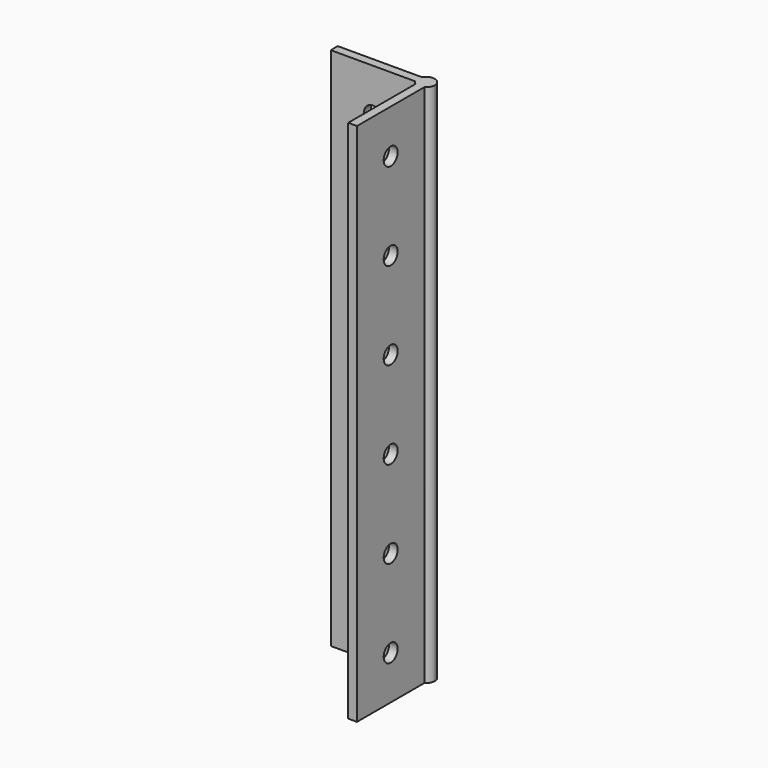
from build123d import *

# Parameters (mm, degrees)
F1_DEPTH = 76.2
F2_R     = 1.27
F3_DEPTH = 25.4
F4_R     = 1.27
F5_DEPTH = 25.4


with BuildPart() as f1:
    # F0 (on Top) → F1 (new body)
    with BuildSketch(Plane.XY):
        with BuildLine():
            ThreePointArc((0, 1.27), (0.0432742006, 1.5987001873), (0.1701477372, 1.905))
            Line((0.1701477372, 1.905), (-12.065, 1.905))
            Line((-12.065, 1.905), (-12.065, 0.635))
            Line((-12.065, 0.635), (0.1701477372, 0.635))
            ThreePointArc((0.1701477372, 0.635), (0.0432742006, 0.9412998127), (0, 1.27))
        make_face()
        with BuildLine():
            Line((1.905, -12.065), (1.905, 0.1701477372))
            ThreePointArc((1.905, 0.1701477372), (1.5987001873, 0.0432742006), (1.27, 0))
            ThreePointArc((1.27, 0), (0.9412998127, 0.0432742006), (0.635, 0.1701477372))
            Line((0.635, 0.1701477372), (0.635, -12.065))
            Line((0.635, -12.065), (1.905, -12.065))
        make_face()
        with BuildLine():
            ThreePointArc((1.905, 0.1701477372), (2.3698522628, 0.635), (2.54, 1.27))
            Line((2.54, 1.27), (1.905, 0.635))
            Line((1.905, 0.635), (1.905, 0.1701477372))
        make_face()
        with BuildLine():
            Line((1.27, 2.54), (2.54, 1.27))
            ThreePointArc((2.54, 1.27), (2.1680256121, 2.1680256121), (1.27, 2.54))
        make_face()
        Polygon((1.27, 1.27), (2.54, 1.27), (1.27, 2.54), align=None)
        Polygon((1.905, 0.635), (2.54, 1.27), (1.27, 1.27), (1.27, 0), align=None)
        with BuildLine():
            ThreePointArc((1.27, 0), (1.5987001873, 0.0432742006), (1.905, 0.1701477372))
            Line((1.905, 0.1701477372), (1.905, 0.635))
            Line((1.905, 0.635), (1.27, 0))
        make_face()
        with BuildLine():
            ThreePointArc((0.635, 0.1701477372), (0.9412998127, 0.0432742006), (1.27, 0))
            Line((1.27, 0), (0.635, 0.635))
            Line((0.635, 0.635), (0.635, 0.1701477372))
        make_face()
        with BuildLine():
            ThreePointArc((0.1701477372, 0.635), (0.3719743879, 0.3719743879), (0.635, 0.1701477372))
            Line((0.635, 0.1701477372), (0.635, 0.635))
            Line((0.635, 0.635), (0.1701477372, 0.635))
        make_face()
        with BuildLine():
            Line((0.635, 0.635), (0, 1.27))
            ThreePointArc((0, 1.27), (0.0432742006, 0.9412998127), (0.1701477372, 0.635))
            Line((0.1701477372, 0.635), (0.635, 0.635))
        make_face()
        Polygon((1.27, 0), (1.27, 1.27), (0, 1.27), (0.635, 0.635), align=None)
        Polygon((1.27, 1.27), (1.27, 2.54), (0.635, 1.905), (0, 1.27), align=None)
        with BuildLine():
            Line((0.635, 1.905), (0.1701477372, 1.905))
            ThreePointArc((0.1701477372, 1.905), (0.0432742006, 1.5987001873), (0, 1.27))
            Line((0, 1.27), (0.635, 1.905))
        make_face()
        with BuildLine():
            Line((0.635, 1.905), (1.27, 2.54))
            ThreePointArc((1.27, 2.54), (0.635, 2.3698522628), (0.1701477372, 1.905))
            Line((0.1701477372, 1.905), (0.635, 1.905))
        make_face()
    extrude(amount=F1_DEPTH)

    # F2 (on face) → F3 (cut)
    with BuildSketch(Plane.YZ.offset(1.905)):
        with Locations((-5.9474261314, 69.85)):
            Circle(F2_R)
        with Locations((-5.9474261314, 57.15)):
            Circle(F2_R)
        with Locations((-5.9474261314, 44.45)):
            Circle(F2_R)
        with Locations((-5.9474261314, 31.75)):
            Circle(F2_R)
        with Locations((-5.9474261314, 19.05)):
            Circle(F2_R)
        with Locations((-5.9474261314, 6.35)):
            Circle(F2_R)
    extrude(amount=-F3_DEPTH, mode=Mode.SUBTRACT)

    # F4 (on face) → F5 (cut)
    with BuildSketch(Plane(origin=(0, 1.905, 0), x_dir=(-1, 0, 0), z_dir=(0, 1, 0))):
        with Locations((5.9474261314, 69.85)):
            Circle(F4_R)
        with Locations((5.9474261314, 57.15)):
            Circle(F4_R)
        with Locations((5.9474261314, 44.45)):
            Circle(F4_R)
        with Locations((5.9474261314, 31.75)):
            Circle(F4_R)
        with Locations((5.9474261314, 19.05)):
            Circle(F4_R)
        with BuildLine():
            ThreePointArc((7.2174261314, 6.35), (5.0494005193, 7.2480256121), (5.9474261314, 5.08))
            ThreePointArc((5.9474261314, 5.08), (6.8454517435, 5.4519743879), (7.2174261314, 6.35))
        make_face()
    extrude(amount=-F5_DEPTH, mode=Mode.SUBTRACT)


solid = f1.part
